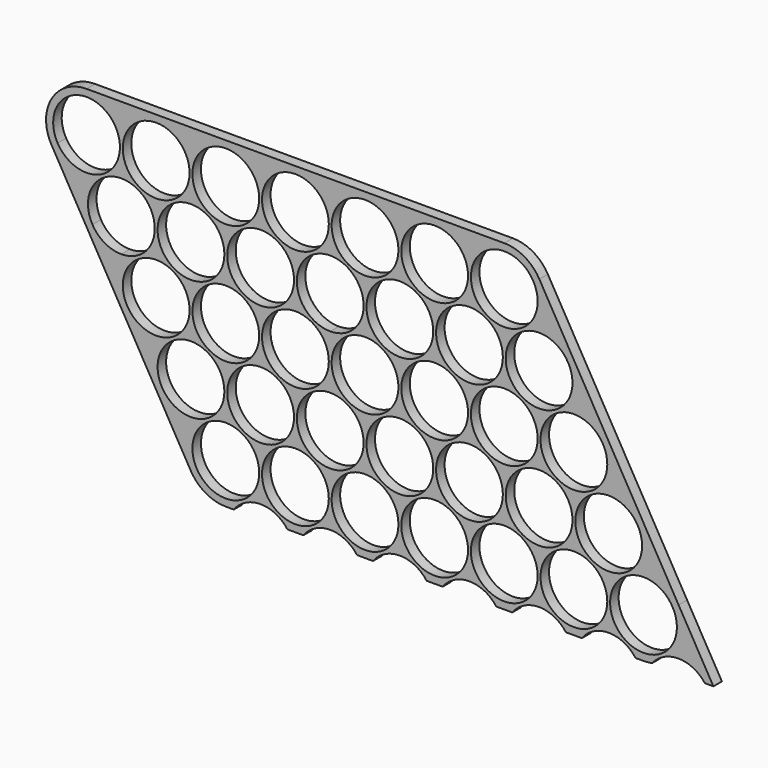
from build123d import *

# Parameters (mm, degrees)
F0_R     = 9.4
F1_DEPTH = 3


with BuildPart() as f1:
    # F0 (on Front) → F1 (new body)
    with BuildSketch(Plane.XZ):
        with BuildLine():
            Line((58.8, 11.4), (0, 11.4))
            ThreePointArc((0, 11.4), (-9.870808, 5.703258), (-9.87645, -5.693483))
            Line((-9.87645, -5.693483), (-0.07645, -22.693483))
            Line((-0.07645, -22.693483), (19.523115, -56.692727))
            Line((19.523115, -56.692727), (29.322897, -73.692349))
            ThreePointArc((29.322897, -73.692349), (33.496089, -77.869674), (39.199347, -79.398866))
            Line((39.199347, -79.398866), (41.449014, -79.398866))
            ThreePointArc((41.449014, -79.398866), (48.999129, -75.598489), (56.549243, -79.398866))
            Line((56.549243, -79.398866), (61.049014, -79.398866))
            ThreePointArc((61.049014, -79.398866), (68.599129, -75.598489), (76.149243, -79.398866))
            Line((76.149243, -79.398866), (80.649014, -79.398866))
            ThreePointArc((80.649014, -79.398866), (88.199129, -75.598489), (95.749243, -79.398866))
            Line((95.749243, -79.398866), (100.249014, -79.398866))
            ThreePointArc((100.249014, -79.398866), (107.799129, -75.598489), (115.349243, -79.398866))
            Line((115.349243, -79.398866), (119.849014, -79.398866))
            ThreePointArc((119.849014, -79.398866), (127.399129, -75.598489), (134.949243, -79.398866))
            Line((134.949243, -79.398866), (139.449014, -79.398866))
            ThreePointArc((139.449014, -79.398866), (146.999129, -75.598489), (154.549243, -79.398866))
            Line((154.549243, -79.398866), (156.799347, -79.398866))
            ThreePointArc((156.799347, -79.398866), (158.034478, -79.331759), (159.255068, -79.131226))
            ThreePointArc((159.255068, -79.131226), (161.904503, -76.85475), (165.20223, -75.702862))
            ThreePointArc((165.20223, -75.702862), (170.133763, -76.288359), (174.078718, -79.305006))
            Line((174.078718, -79.305006), (176.475578, -79.305006))
            Line((176.475578, -79.305006), (166.675796, -62.305384))
            Line((166.675796, -62.305384), (127.47645, 5.693483))
            ThreePointArc((127.47645, 5.693483), (123.303258, 9.870808), (117.6, 11.4))
            Line((117.6, 11.4), (98, 11.4))
            Line((98, 11.4), (58.8, 11.4))
        make_face()
        with Locations((39.199347, -67.998866)):
            Circle(F0_R, mode=Mode.SUBTRACT)
        with Locations((58.799347, -67.998866)):
            Circle(F0_R, mode=Mode.SUBTRACT)
        with Locations((78.399347, -67.998866)):
            Circle(F0_R, mode=Mode.SUBTRACT)
        with Locations((29.399564, -50.999244)):
            Circle(F0_R, mode=Mode.SUBTRACT)
        with Locations((19.599782, -33.999622)):
            Circle(F0_R, mode=Mode.SUBTRACT)
        with Locations((48.999564, -50.999244)):
            Circle(F0_R, mode=Mode.SUBTRACT)
        with Locations((68.599564, -50.999244)):
            Circle(F0_R, mode=Mode.SUBTRACT)
        with Locations((39.199782, -33.999622)):
            Circle(F0_R, mode=Mode.SUBTRACT)
        with Locations((58.799782, -33.999622)):
            Circle(F0_R, mode=Mode.SUBTRACT)
        with Locations((78.399782, -33.999622)):
            Circle(F0_R, mode=Mode.SUBTRACT)
        with Locations((97.999347, -67.998866)):
            Circle(F0_R, mode=Mode.SUBTRACT)
        with Locations((117.599347, -67.998866)):
            Circle(F0_R, mode=Mode.SUBTRACT)
        with Locations((137.199347, -67.998866)):
            Circle(F0_R, mode=Mode.SUBTRACT)
        with Locations((156.799347, -67.998866)):
            Circle(F0_R, mode=Mode.SUBTRACT)
        with Locations((88.199564, -50.999244)):
            Circle(F0_R, mode=Mode.SUBTRACT)
        with Locations((107.799564, -50.999244)):
            Circle(F0_R, mode=Mode.SUBTRACT)
        with Locations((127.399564, -50.999244)):
            Circle(F0_R, mode=Mode.SUBTRACT)
        with Locations((97.999782, -33.999622)):
            Circle(F0_R, mode=Mode.SUBTRACT)
        with Locations((117.599782, -33.999622)):
            Circle(F0_R, mode=Mode.SUBTRACT)
        with Locations((146.999564, -50.999244)):
            Circle(F0_R, mode=Mode.SUBTRACT)
        with Locations((137.199782, -33.999622)):
            Circle(F0_R, mode=Mode.SUBTRACT)
        with BuildLine():
            ThreePointArc((9.8, -26.4), (5.097314, -25.139087), (1.656261, -21.694626))
            ThreePointArc((1.656261, -21.694626), (7.370097, -7.919495), (19.2, -17))
            ThreePointArc((19.2, -17), (16.446804, -23.646804), (9.8, -26.4))
        make_face(mode=Mode.SUBTRACT)
        with Locations((29.4, -17)):
            Circle(F0_R, mode=Mode.SUBTRACT)
        with Locations((49, -17)):
            Circle(F0_R, mode=Mode.SUBTRACT)
        with BuildLine():
            ThreePointArc((76.743739, -12.305374), (77.680505, -14.570097), (78, -17))
            ThreePointArc((78, -17), (75.246804, -23.646804), (68.6, -26.4))
            ThreePointArc((68.6, -26.4), (60.460913, -12.297314), (76.743739, -12.305374))
        make_face(mode=Mode.SUBTRACT)
        with BuildLine():
            ThreePointArc((0, 9.4), (6.646804, 6.646804), (9.4, 0))
            ThreePointArc((9.4, 0), (2.429903, -9.080505), (-8.143739, -4.694626))
            ThreePointArc((-8.143739, -4.694626), (-8.139087, 4.702686), (0, 9.4))
        make_face(mode=Mode.SUBTRACT)
        with BuildLine():
            ThreePointArc((29, 0), (12.953196, -6.646804), (19.6, 9.4))
            ThreePointArc((19.6, 9.4), (26.246804, 6.646804), (29, 0))
        make_face(mode=Mode.SUBTRACT)
        with BuildLine():
            ThreePointArc((48.6, 0), (32.553196, -6.646804), (39.2, 9.4))
            ThreePointArc((39.2, 9.4), (45.846804, 6.646804), (48.6, 0))
        make_face(mode=Mode.SUBTRACT)
        with BuildLine():
            ThreePointArc((68.2, 0), (52.153196, -6.646804), (58.8, 9.4))
            ThreePointArc((58.8, 9.4), (63.502686, 8.139087), (66.943739, 4.694626))
            ThreePointArc((66.943739, 4.694626), (67.880505, 2.429903), (68.2, 0))
        make_face(mode=Mode.SUBTRACT)
        with Locations((78.4, 0)):
            Circle(F0_R, mode=Mode.SUBTRACT)
        with Locations((88.2, -17)):
            Circle(F0_R, mode=Mode.SUBTRACT)
        with Locations((107.8, -17)):
            Circle(F0_R, mode=Mode.SUBTRACT)
        with Locations((127.4, -17)):
            Circle(F0_R, mode=Mode.SUBTRACT)
        with Locations((98, 0)):
            Circle(F0_R, mode=Mode.SUBTRACT)
        with Locations((117.6, 0)):
            Circle(F0_R, mode=Mode.SUBTRACT)
        with BuildLine():
            Line((58.8, 11.4), (0, 11.4))
            ThreePointArc((0, 11.4), (-9.870808, 5.703258), (-9.87645, -5.693483))
            Line((-9.87645, -5.693483), (-0.07645, -22.693483))
            Line((-0.07645, -22.693483), (19.523115, -56.692727))
            Line((19.523115, -56.692727), (29.322897, -73.692349))
            ThreePointArc((29.322897, -73.692349), (33.496089, -77.869674), (39.199347, -79.398866))
            Line((39.199347, -79.398866), (41.449014, -79.398866))
            ThreePointArc((41.449014, -79.398866), (48.999129, -75.598489), (56.549243, -79.398866))
            Line((56.549243, -79.398866), (61.049014, -79.398866))
            ThreePointArc((61.049014, -79.398866), (68.599129, -75.598489), (76.149243, -79.398866))
            Line((76.149243, -79.398866), (80.649014, -79.398866))
            ThreePointArc((80.649014, -79.398866), (88.199129, -75.598489), (95.749243, -79.398866))
            Line((95.749243, -79.398866), (100.249014, -79.398866))
            ThreePointArc((100.249014, -79.398866), (107.799129, -75.598489), (115.349243, -79.398866))
            Line((115.349243, -79.398866), (119.849014, -79.398866))
            ThreePointArc((119.849014, -79.398866), (127.399129, -75.598489), (134.949243, -79.398866))
            Line((134.949243, -79.398866), (139.449014, -79.398866))
            ThreePointArc((139.449014, -79.398866), (146.999129, -75.598489), (154.549243, -79.398866))
            Line((154.549243, -79.398866), (156.799347, -79.398866))
            ThreePointArc((156.799347, -79.398866), (158.034478, -79.331759), (159.255068, -79.131226))
            ThreePointArc((159.255068, -79.131226), (161.904503, -76.85475), (165.20223, -75.702862))
            ThreePointArc((165.20223, -75.702862), (170.133763, -76.288359), (174.078718, -79.305006))
            Line((174.078718, -79.305006), (176.475578, -79.305006))
            Line((176.475578, -79.305006), (166.675796, -62.305384))
            Line((166.675796, -62.305384), (127.47645, 5.693483))
            ThreePointArc((127.47645, 5.693483), (123.303258, 9.870808), (117.6, 11.4))
            Line((117.6, 11.4), (98, 11.4))
            Line((98, 11.4), (58.8, 11.4))
        make_face()
        with Locations((39.199347, -67.998866)):
            Circle(F0_R, mode=Mode.SUBTRACT)
        with Locations((58.799347, -67.998866)):
            Circle(F0_R, mode=Mode.SUBTRACT)
        with Locations((78.399347, -67.998866)):
            Circle(F0_R, mode=Mode.SUBTRACT)
        with Locations((29.399564, -50.999244)):
            Circle(F0_R, mode=Mode.SUBTRACT)
        with Locations((19.599782, -33.999622)):
            Circle(F0_R, mode=Mode.SUBTRACT)
        with Locations((48.999564, -50.999244)):
            Circle(F0_R, mode=Mode.SUBTRACT)
        with Locations((68.599564, -50.999244)):
            Circle(F0_R, mode=Mode.SUBTRACT)
        with Locations((39.199782, -33.999622)):
            Circle(F0_R, mode=Mode.SUBTRACT)
        with Locations((58.799782, -33.999622)):
            Circle(F0_R, mode=Mode.SUBTRACT)
        with Locations((78.399782, -33.999622)):
            Circle(F0_R, mode=Mode.SUBTRACT)
        with Locations((97.999347, -67.998866)):
            Circle(F0_R, mode=Mode.SUBTRACT)
        with Locations((117.599347, -67.998866)):
            Circle(F0_R, mode=Mode.SUBTRACT)
        with Locations((137.199347, -67.998866)):
            Circle(F0_R, mode=Mode.SUBTRACT)
        with Locations((156.799347, -67.998866)):
            Circle(F0_R, mode=Mode.SUBTRACT)
        with Locations((88.199564, -50.999244)):
            Circle(F0_R, mode=Mode.SUBTRACT)
        with Locations((107.799564, -50.999244)):
            Circle(F0_R, mode=Mode.SUBTRACT)
        with Locations((127.399564, -50.999244)):
            Circle(F0_R, mode=Mode.SUBTRACT)
        with Locations((97.999782, -33.999622)):
            Circle(F0_R, mode=Mode.SUBTRACT)
        with Locations((117.599782, -33.999622)):
            Circle(F0_R, mode=Mode.SUBTRACT)
        with Locations((146.999564, -50.999244)):
            Circle(F0_R, mode=Mode.SUBTRACT)
        with Locations((137.199782, -33.999622)):
            Circle(F0_R, mode=Mode.SUBTRACT)
        with BuildLine():
            ThreePointArc((9.8, -26.4), (5.097314, -25.139087), (1.656261, -21.694626))
            ThreePointArc((1.656261, -21.694626), (7.370097, -7.919495), (19.2, -17))
            ThreePointArc((19.2, -17), (16.446804, -23.646804), (9.8, -26.4))
        make_face(mode=Mode.SUBTRACT)
        with Locations((29.4, -17)):
            Circle(F0_R, mode=Mode.SUBTRACT)
        with Locations((49, -17)):
            Circle(F0_R, mode=Mode.SUBTRACT)
        with BuildLine():
            ThreePointArc((76.743739, -12.305374), (77.680505, -14.570097), (78, -17))
            ThreePointArc((78, -17), (75.246804, -23.646804), (68.6, -26.4))
            ThreePointArc((68.6, -26.4), (60.460913, -12.297314), (76.743739, -12.305374))
        make_face(mode=Mode.SUBTRACT)
        with BuildLine():
            ThreePointArc((0, 9.4), (6.646804, 6.646804), (9.4, 0))
            ThreePointArc((9.4, 0), (2.429903, -9.080505), (-8.143739, -4.694626))
            ThreePointArc((-8.143739, -4.694626), (-8.139087, 4.702686), (0, 9.4))
        make_face(mode=Mode.SUBTRACT)
        with BuildLine():
            ThreePointArc((29, 0), (12.953196, -6.646804), (19.6, 9.4))
            ThreePointArc((19.6, 9.4), (26.246804, 6.646804), (29, 0))
        make_face(mode=Mode.SUBTRACT)
        with BuildLine():
            ThreePointArc((48.6, 0), (32.553196, -6.646804), (39.2, 9.4))
            ThreePointArc((39.2, 9.4), (45.846804, 6.646804), (48.6, 0))
        make_face(mode=Mode.SUBTRACT)
        with BuildLine():
            ThreePointArc((68.2, 0), (52.153196, -6.646804), (58.8, 9.4))
            ThreePointArc((58.8, 9.4), (63.502686, 8.139087), (66.943739, 4.694626))
            ThreePointArc((66.943739, 4.694626), (67.880505, 2.429903), (68.2, 0))
        make_face(mode=Mode.SUBTRACT)
        with Locations((78.4, 0)):
            Circle(F0_R, mode=Mode.SUBTRACT)
        with Locations((88.2, -17)):
            Circle(F0_R, mode=Mode.SUBTRACT)
        with Locations((107.8, -17)):
            Circle(F0_R, mode=Mode.SUBTRACT)
        with Locations((127.4, -17)):
            Circle(F0_R, mode=Mode.SUBTRACT)
        with Locations((98, 0)):
            Circle(F0_R, mode=Mode.SUBTRACT)
        with Locations((117.6, 0)):
            Circle(F0_R, mode=Mode.SUBTRACT)
    extrude(amount=F1_DEPTH)


solid = f1.part
